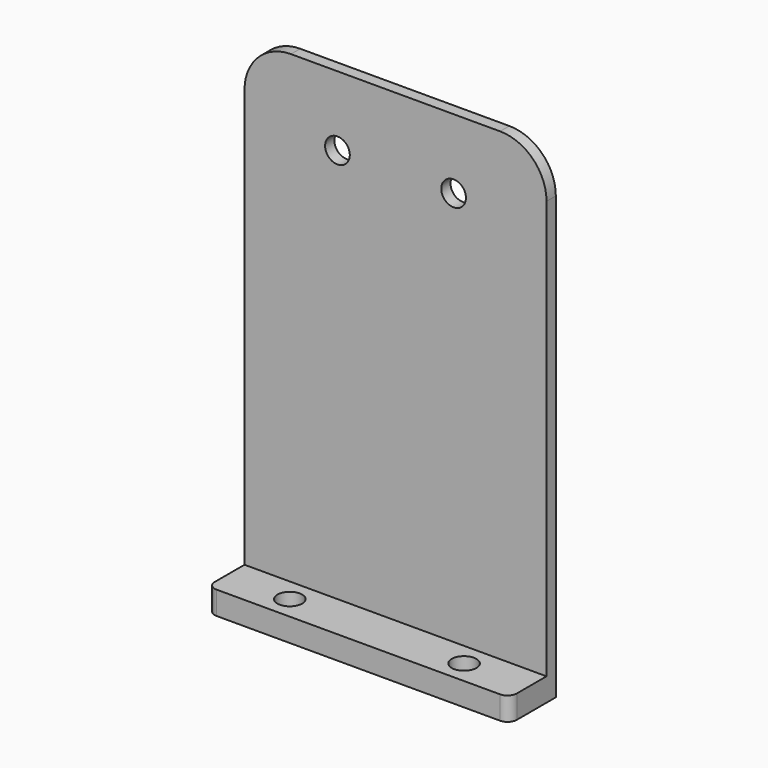
from build123d import *

# Parameters (mm, degrees)
F1_DEPTH = 6.35
F3_D     = 13.49248
F4_W     = 165.1
F4_H     = 12.7
F5_DEPTH = 25.4
F6_R     = 5.08
F8_D     = 13.49248


with BuildPart() as f1:
    # F0 (on Front) → F1 (new body)
    with BuildSketch(Plane.XZ):
        with BuildLine():
            Line((0, 241.3), (0, 0))
            Line((0, 0), (165.1, 0))
            Line((165.1, 0), (165.1, 241.3))
            ThreePointArc((165.1, 241.3), (157.6605122421, 259.2605122421), (139.7, 266.7))
            Line((139.7, 266.7), (25.4, 266.7))
            ThreePointArc((25.4, 266.7), (7.4394877579, 259.2605122421), (0, 241.3))
        make_face()
    extrude(amount=F1_DEPTH)

    # F3 (through all)
    with Locations(Plane.XZ.offset(6.35)):
        with Locations((50.8, 228.6), (114.3, 228.6)):
            Hole(F3_D / 2)

    # F4 (on face) → F5 (join)
    with BuildSketch(Plane.XZ.offset(6.35)):
        with Locations((82.55, 6.35)):
            Rectangle(F4_W, F4_H)
    extrude(amount=F5_DEPTH)

    # F6
    f6_edges = [f1.edges().sort_by_distance(p)[0] for p in [
        (165.1, -31.75, 6.35),
        (0, -31.75, 6.35),
    ]]
    fillet(f6_edges, radius=F6_R)

    # F8 (through all)
    with Locations(Plane.XY.offset(12.7)):
        with Locations((34.925, -19.05), (130.175, -19.05)):
            Hole(F8_D / 2)


solid = f1.part
